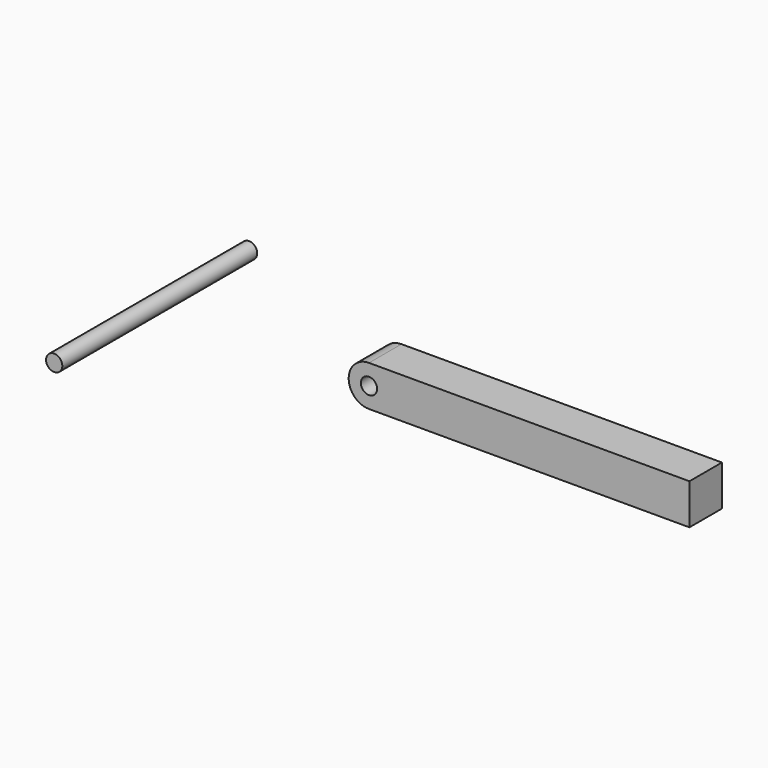
from build123d import *

# Parameters (mm, degrees)
F0_R     = 2
F1_DEPTH = 10
F2_R     = 2
F3_DEPTH = 60


with BuildPart() as f1:
    # F0 (on Front) → F1 (new body)
    with BuildSketch(Plane.XZ):
        with BuildLine():
            ThreePointArc((0, 5), (1.464466, 1.464466), (5, 0))
            Line((5, 0), (83.917933, 0))
            Line((83.917933, 0), (83.917933, 10))
            Line((83.917933, 10), (5, 10))
            ThreePointArc((5, 10), (1.464466, 8.535534), (0, 5))
        make_face()
        with Locations((5, 5)):
            Circle(F0_R, mode=Mode.SUBTRACT)
    extrude(amount=F1_DEPTH)


with BuildPart() as f3:
    # F2 (on Front) → F3 (new body)
    with BuildSketch(Plane.XZ):
        with Locations((-32.525573, 18.131444)):
            Circle(F2_R)
    extrude(amount=F3_DEPTH)


solid = Compound([f1.part, f3.part])
